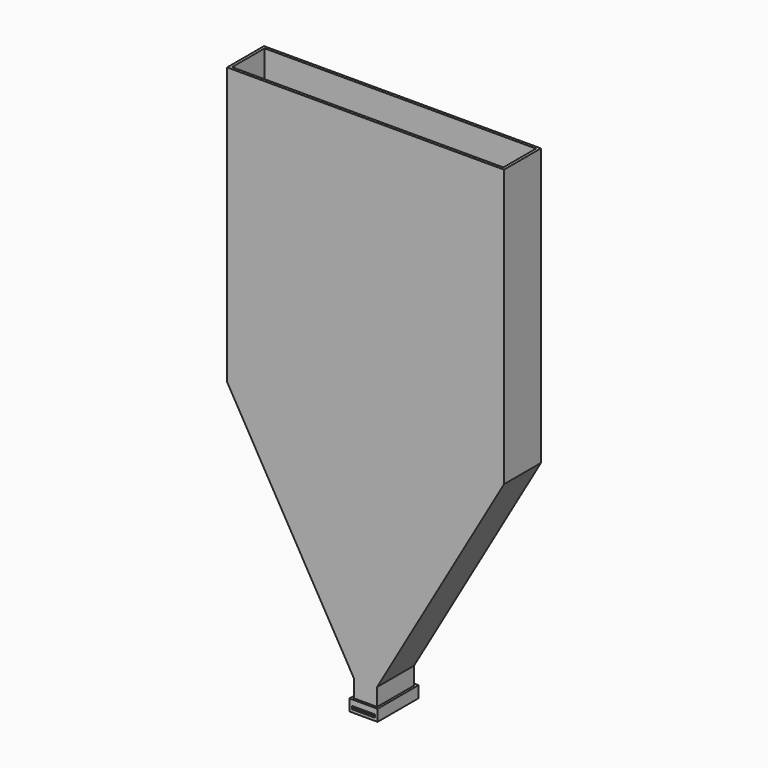
from build123d import *

# Parameters (mm, degrees)
F1_DEPTH      = 25.4
F1_DEPTH_BACK = 25.4
F2_T          = -2.9972
F3_DEPTH      = 25.4
F3_DEPTH_BACK = 25.4
F4_DEPTH      = 25.4
F5_W          = 30.988
F5_H          = 56.388
F5_W_2        = 25.908
F5_H_2        = 51.308
F6_DEPTH      = 6.35
F6_DEPTH_BACK = 6.35
F7_W          = 25.4
F7_H          = 3.2512
F8_DEPTH      = 76.2


with BuildPart() as f1:
    # F0 (on Front) → F1 (new body, two sides)
    with BuildSketch(Plane.XZ) as f1_sk:
        Polygon((12.7, -241.9674978174), (152.4, 0), (152.4, 304.8), (-152.4, 304.8), (-152.4, 0), (-12.7, -241.9674978174), align=None)
        Polygon((0, -263.9645430735), (12.7, -241.9674978174), (-12.7, -241.9674978174), align=None)
    extrude(amount=F1_DEPTH)
    extrude(f1_sk.sketch, amount=-F1_DEPTH_BACK)

    # F2
    f2_openings = [f1.faces().sort_by_distance(p)[0] for p in [
        (0, 0, 304.8),
    ]]
    offset(amount=F2_T, openings=f2_openings)

    # F0 (on Front) → F3 (cut, two sides)
    with BuildSketch(Plane.XZ) as f3_sk:
        Polygon((0, -263.9645430735), (12.7, -241.9674978174), (-12.7, -241.9674978174), align=None)
    extrude(amount=-F3_DEPTH, mode=Mode.SUBTRACT)
    extrude(f3_sk.sketch, amount=F3_DEPTH_BACK, mode=Mode.SUBTRACT)

    # F4 (add): a face of the model
    f4_faces = [f1.faces().sort_by_distance(p)[0] for p in [
        (12.1320387337, 0, -241.9674978174),
    ]]
    extrude(f4_faces, amount=F4_DEPTH)


with BuildPart() as f6:
    # F5 (on face) → F6 (new body, two sides)
    with BuildSketch(Plane(origin=(0, 0, -267.3674978174), x_dir=(1, 0, 0), z_dir=(0, 0, -1))) as f6_sk:
        Rectangle(F5_W, F5_H)
        Rectangle(F5_W_2, F5_H_2, mode=Mode.SUBTRACT)
    extrude(amount=-F6_DEPTH)
    extrude(f6_sk.sketch, amount=F6_DEPTH_BACK)

    # F7 (on face) → F8 (cut)
    with BuildSketch(Plane.XZ.offset(28.194)):
        with Locations((0, -268.9930978174)):
            Rectangle(F7_W, F7_H)
    extrude(amount=-F8_DEPTH, mode=Mode.SUBTRACT)


solid = Compound([f1.part, f6.part])
